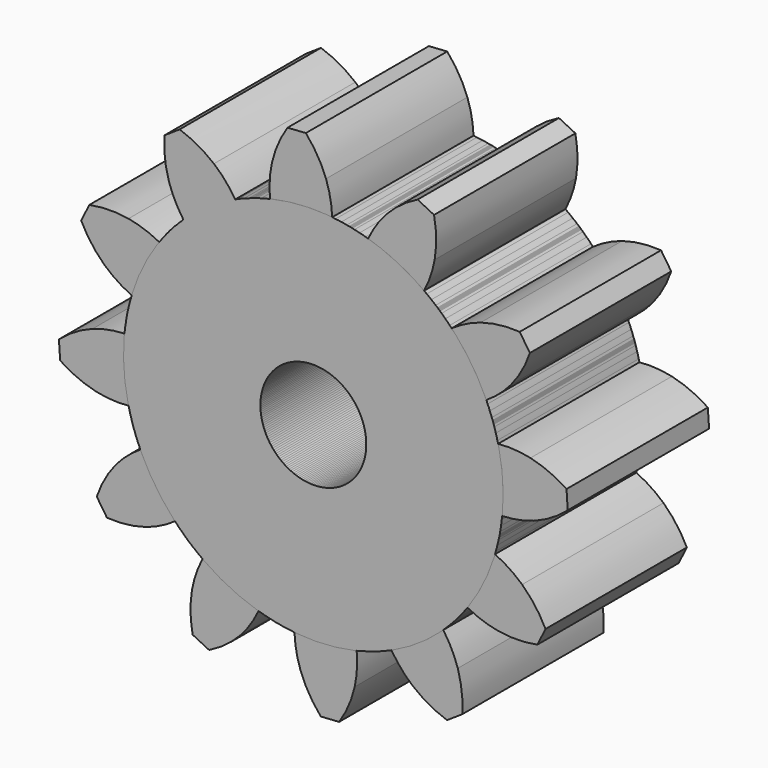
from build123d import *

# Parameters (mm, degrees)
F1_DEPTH = 25
F2_COUNT = 12
F4_D     = 15
F4_2_D   = 15
F4_3_D   = 15
F4_4_D   = 15
F4_5_D   = 15
F4_6_D   = 15
F4_7_D   = 15
F4_8_D   = 15
F4_9_D   = 15
F4_10_D  = 15
F4_11_D  = 15
F4_12_D  = 15


with BuildPart() as f1:
    # F0 (on Front) → F1 (new body)
    with BuildSketch(Plane.XZ):
        with BuildLine():
            ThreePointArc((-6.134871, 26.150522), (-16.683836, -21.050798), (26.8605, 0))
            ThreePointArc((26.8605, 0), (19.914551, 18.024902), (2.669059, 26.727562))
            ThreePointArc((2.669059, 26.727562), (-1.756761, 26.80299), (-6.134871, 26.150522))
        make_face()
        with BuildLine():
            ThreePointArc((-6.134871, 26.150522), (-1.756761, 26.80299), (2.669059, 26.727562))
            ThreePointArc((2.669059, 26.727562), (2.40685, 29.014498), (1.798473, 31.234567))
            ThreePointArc((1.798473, 31.234567), (0.588284, 33.746218), (-1.057965, 35.996288))
            Line((-1.057965, 35.996288), (-3.649544, 35.826427))
            ThreePointArc((-3.649544, 35.826427), (-4.988016, 33.380728), (-5.860016, 30.732603))
            ThreePointArc((-5.860016, 30.732603), (-6.173411, 28.452118), (-6.134871, 26.150522))
        make_face()
    extrude(amount=F1_DEPTH)

    # F4 (through all)
    with Locations(Plane.XZ.offset(25)):
        with Locations((0, 0)):
            Hole(F4_D / 2)


with BuildPart() as f2_1:
    # F2: instance of F1
    add(f1.part.rotate(Axis((0, 0, 0), (0, 1, 0)), 1 * 360 / F2_COUNT))

    # F4#2 (through all)
    with Locations(Plane.XZ.offset(25)):
        with Locations((0, 0)):
            Hole(F4_2_D / 2)


with BuildPart() as f2_2:
    # F2: instance of F1
    add(f1.part.rotate(Axis((0, 0, 0), (0, 1, 0)), 2 * 360 / F2_COUNT))

    # F4#3 (through all)
    with Locations(Plane.XZ.offset(25)):
        with Locations((0, 0)):
            Hole(F4_3_D / 2)


with BuildPart() as f2_3:
    # F2: instance of F1
    add(f1.part.rotate(Axis((0, 0, 0), (0, 1, 0)), 3 * 360 / F2_COUNT))

    # F4#4 (through all)
    with Locations(Plane.XZ.offset(25)):
        with Locations((0, 0)):
            Hole(F4_4_D / 2)


with BuildPart() as f2_4:
    # F2: instance of F1
    add(f1.part.rotate(Axis((0, 0, 0), (0, 1, 0)), 4 * 360 / F2_COUNT))

    # F4#5 (through all)
    with Locations(Plane.XZ.offset(25)):
        with Locations((0, 0)):
            Hole(F4_5_D / 2)


with BuildPart() as f2_5:
    # F2: instance of F1
    add(f1.part.rotate(Axis((0, 0, 0), (0, 1, 0)), 5 * 360 / F2_COUNT))

    # F4#6 (through all)
    with Locations(Plane.XZ.offset(25)):
        with Locations((0, 0)):
            Hole(F4_6_D / 2)


with BuildPart() as f2_6:
    # F2: instance of F1
    add(f1.part.rotate(Axis((0, 0, 0), (0, 1, 0)), 6 * 360 / F2_COUNT))

    # F4#7 (through all)
    with Locations(Plane.XZ.offset(25)):
        with Locations((0, 0)):
            Hole(F4_7_D / 2)


with BuildPart() as f2_7:
    # F2: instance of F1
    add(f1.part.rotate(Axis((0, 0, 0), (0, 1, 0)), 7 * 360 / F2_COUNT))

    # F4#8 (through all)
    with Locations(Plane.XZ.offset(25)):
        with Locations((0, 0)):
            Hole(F4_8_D / 2)


with BuildPart() as f2_8:
    # F2: instance of F1
    add(f1.part.rotate(Axis((0, 0, 0), (0, 1, 0)), 8 * 360 / F2_COUNT))

    # F4#9 (through all)
    with Locations(Plane.XZ.offset(25)):
        with Locations((0, 0)):
            Hole(F4_9_D / 2)


with BuildPart() as f2_9:
    # F2: instance of F1
    add(f1.part.rotate(Axis((0, 0, 0), (0, 1, 0)), 9 * 360 / F2_COUNT))

    # F4#10 (through all)
    with Locations(Plane.XZ.offset(25)):
        with Locations((0, 0)):
            Hole(F4_10_D / 2)


with BuildPart() as f2_10:
    # F2: instance of F1
    add(f1.part.rotate(Axis((0, 0, 0), (0, 1, 0)), 10 * 360 / F2_COUNT))

    # F4#11 (through all)
    with Locations(Plane.XZ.offset(25)):
        with Locations((0, 0)):
            Hole(F4_11_D / 2)


with BuildPart() as f2_11:
    # F2: instance of F1
    add(f1.part.rotate(Axis((0, 0, 0), (0, 1, 0)), 11 * 360 / F2_COUNT))

    # F4#12 (through all)
    with Locations(Plane.XZ.offset(25)):
        with Locations((0, 0)):
            Hole(F4_12_D / 2)


solid = Compound([f1.part, f2_1.part, f2_2.part, f2_3.part, f2_4.part, f2_5.part, f2_6.part, f2_7.part, f2_8.part, f2_9.part, f2_10.part, f2_11.part])
